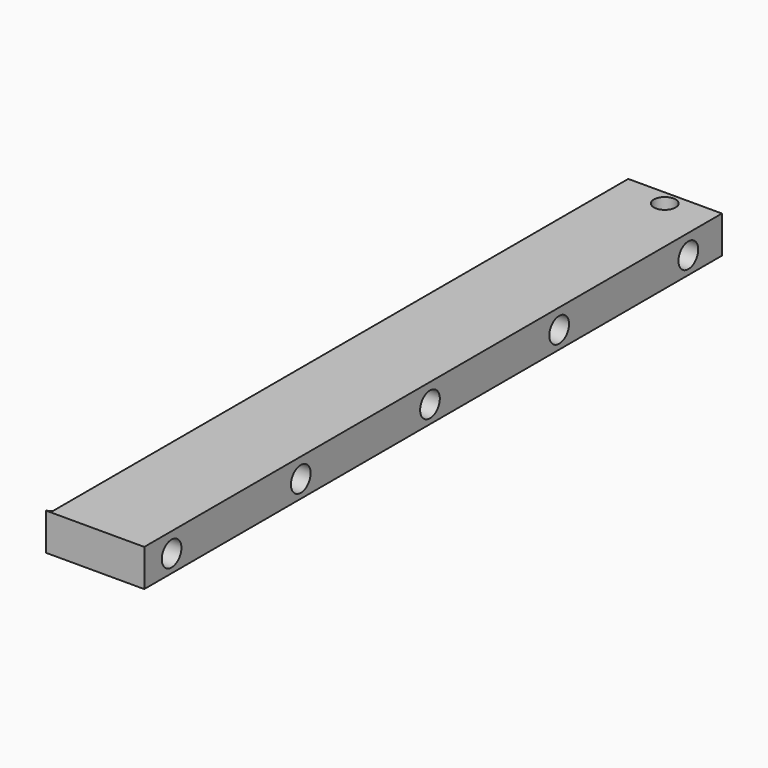
from build123d import *

# Parameters (mm, degrees)
F0_W     = 63.378432
F0_H     = 16.102
F1_DEPTH = 313
F2_R     = 5.335787
F3_DEPTH = 63.379432
F5_R     = 4.717458
F6_DEPTH = 25
F8_DEPTH = 25
F9_DEPTH = 25


with BuildPart() as f1:
    # F0 (on Front) → F1 (new body)
    with BuildSketch(Plane.XZ):
        with Locations((-3.735943, 27.252212)):
            Rectangle(F0_W, F0_H)
    extrude(amount=F1_DEPTH)

    # F2 (on face) → F3 (cut, through all)
    with BuildSketch(Plane.YZ.offset(27.953273)):
        with Locations((-18.191617, 26.778789)):
            Circle(F2_R)
        with Locations((-88.191617, 26.778789)):
            Circle(F2_R)
        with Locations((-158.191617, 26.778789)):
            Circle(F2_R)
        with Locations((-228.191617, 26.778789)):
            Circle(F2_R)
        with Locations((-298.191617, 26.778789)):
            Circle(F2_R)
    extrude(amount=-F3_DEPTH, mode=Mode.SUBTRACT)

    # F5 (on face) → F6 (cut)
    with BuildSketch(Plane(origin=(0, 0, 19.201212), x_dir=(1, 0, 0), z_dir=(0, 0, -1))):
        with Locations((8.254815, 6.340917)):
            Circle(F5_R)
    extrude(amount=-F6_DEPTH, mode=Mode.SUBTRACT)

    # F7 (on face) → F8 (cut)
    with BuildSketch(Plane.XY.offset(35.303212)):
        Polygon((-34.219209, -324.690997), (-12.643897, -311.831832), (-12.643897, 0), (-35.135265, 11.57862), (-57.62665, 0), (-81.669144, -321.138591), align=None)
    extrude(amount=-F8_DEPTH, mode=Mode.SUBTRACT)

    # F5 (on face) → F9 (cut)
    with BuildSketch(Plane(origin=(0, 0, 19.201212), x_dir=(1, 0, 0), z_dir=(0, 0, -1))):
        with Locations((8.254815, 6.340917)):
            Circle(F5_R)
    extrude(amount=-F9_DEPTH, mode=Mode.SUBTRACT)


solid = f1.part
